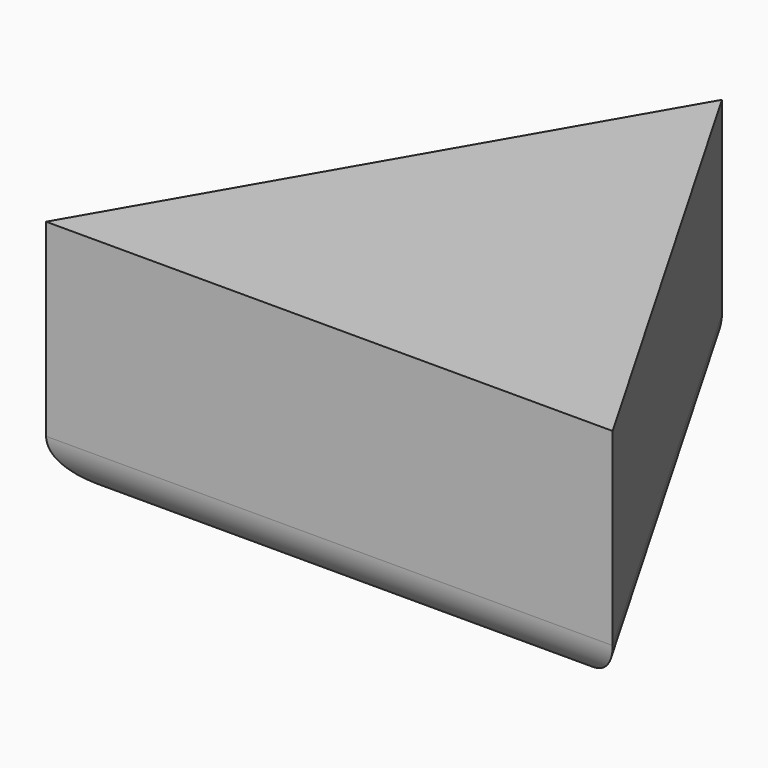
from build123d import *

# Parameters (mm, degrees)
F0_R     = 7.3867254589
F1_DEPTH = 25
F3_D     = 12
F3_DEPTH = 12
F3_TIP   = 3.6051637142
F4_R     = 5


with BuildPart() as f1:
    # F0 (on Top) → F1 (new body)
    with BuildSketch(Plane.XY):
        Polygon((15.9428178774, -17.4442061965), (-14.0571821226, 34.5173180305), (-44.0571821226, -17.4442061965), align=None)
        with Locations((-21.5571821226, -4.4538251398)):
            Circle(F0_R, mode=Mode.SUBTRACT)
        with Locations((-21.5571821226, -4.4538251398)):
            Circle(F0_R)
    extrude(amount=F1_DEPTH)

    # F3
    with Locations(Plane(origin=(0, 0, 0), x_dir=(1, 0, 0), z_dir=(0, 0, -1))):
        with Locations((-18.1187801063, 2.1665317472)):
            Hole(F3_D / 2, depth=F3_DEPTH)
            with Locations((0, 0, -(F3_DEPTH + F3_TIP / 2))):  # 118° drill point
                Cone(0, F3_D / 2, F3_TIP, mode=Mode.SUBTRACT)

    # F4
    f4_edges = [f1.edges().sort_by_distance(p)[0] for p in [
        (0.942818, 8.536556, 0),
        (-14.057182, -17.444206, 0),
        (-29.057182, 8.536556, 0),
    ]]
    fillet(f4_edges, radius=F4_R)


solid = f1.part
